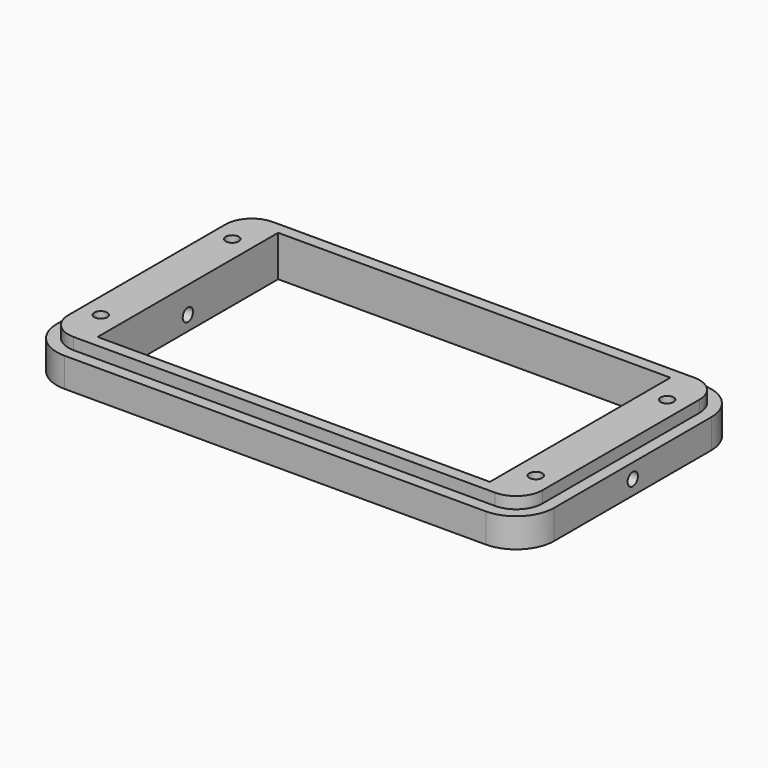
from build123d import *

# Parameters (mm, degrees)
F0_W           = 67.1
F0_H           = 38.6
F1_DEPTH       = 7
F2_DEPTH       = 5
F3_D           = 2.2
F3_CSINK_D     = 6.72
F3_CSINK_ANGLE = 90
F5_D           = 2.2


with BuildPart() as f1:
    # F0 (on Top) → F1 (new body)
    with BuildSketch(Plane.XY):
        with BuildLine():
            ThreePointArc((40.55, 16.8), (39.231981, 19.981981), (36.05, 21.3))
            Line((36.05, 21.3), (-36.05, 21.3))
            ThreePointArc((-36.05, 21.3), (-39.231981, 19.981981), (-40.55, 16.8))
            Line((-40.55, 16.8), (-40.55, -16.8))
            ThreePointArc((-40.55, -16.8), (-39.231981, -19.981981), (-36.05, -21.3))
            Line((-36.05, -21.3), (36.05, -21.3))
            ThreePointArc((36.05, -21.3), (39.231981, -19.981981), (40.55, -16.8))
            Line((40.55, -16.8), (40.55, 16.8))
        make_face()
        Rectangle(F0_W, F0_H, mode=Mode.SUBTRACT)
    extrude(amount=F1_DEPTH)

    # F0 (on Top) → F2 (join)
    with BuildSketch(Plane.XY):
        with BuildLine():
            Line((42.55, -16.8), (42.55, 16.8))
            ThreePointArc((42.55, 16.8), (40.646194, 21.396194), (36.05, 23.3))
            Line((36.05, 23.3), (-36.05, 23.3))
            ThreePointArc((-36.05, 23.3), (-40.646194, 21.396194), (-42.55, 16.8))
            Line((-42.55, 16.8), (-42.55, -16.8))
            ThreePointArc((-42.55, -16.8), (-40.646194, -21.396194), (-36.05, -23.3))
            Line((-36.05, -23.3), (36.05, -23.3))
            ThreePointArc((36.05, -23.3), (40.646194, -21.396194), (42.55, -16.8))
        make_face()
        with BuildLine():
            Line((-36.05, 21.3), (36.05, 21.3))
            ThreePointArc((36.05, 21.3), (39.231981, 19.981981), (40.55, 16.8))
            Line((40.55, 16.8), (40.55, -16.8))
            ThreePointArc((40.55, -16.8), (39.231981, -19.981981), (36.05, -21.3))
            Line((36.05, -21.3), (-36.05, -21.3))
            ThreePointArc((-36.05, -21.3), (-39.231981, -19.981981), (-40.55, -16.8))
            Line((-40.55, -16.8), (-40.55, 16.8))
            ThreePointArc((-40.55, 16.8), (-39.231981, 19.981981), (-36.05, 21.3))
        make_face(mode=Mode.SUBTRACT)
    extrude(amount=F2_DEPTH)

    # F3 (through all)
    with Locations(Plane(origin=(0, 0, 0), x_dir=(1, 0, 0), z_dir=(0, 0, -1))):
        with Locations((37.2, 14.05), (37.2, -14.05), (-37.2, -14.05), (-37.2, 14.05)):
            CounterSinkHole(F3_D / 2, F3_CSINK_D / 2, counter_sink_angle=F3_CSINK_ANGLE)

    # F5 (through all)
    with Locations(Plane.YZ.offset(42.55)):
        with Locations((0, 2.5)):
            Hole(F5_D / 2)


solid = f1.part
